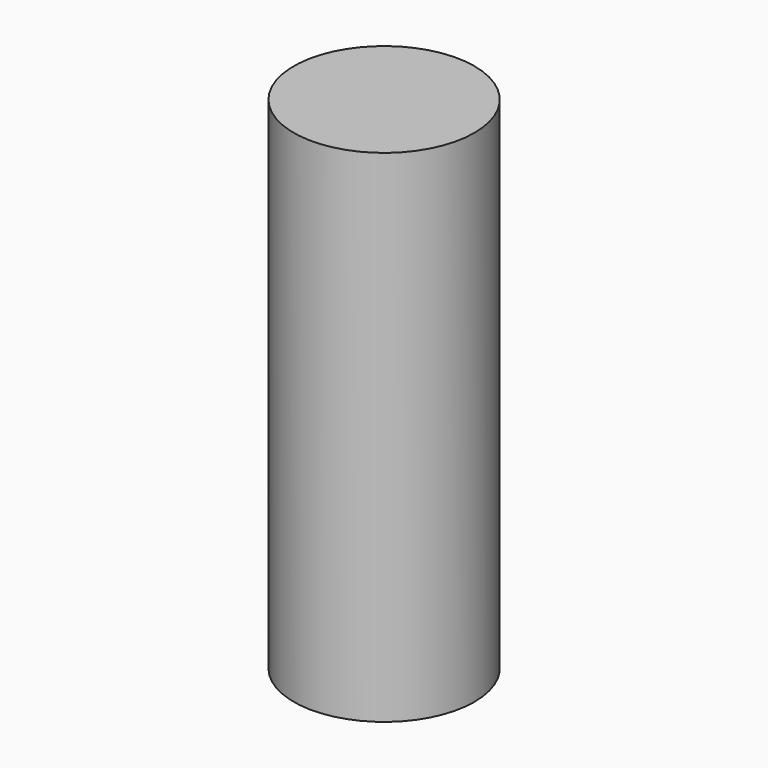
from build123d import *

# Parameters (mm, degrees)
CYLINDER_R     = 2.7051
CYLINDER_DEPTH = 15


with BuildPart() as part:
    # Cylinder → Cylinder (new body)
    with BuildSketch(Plane.XY.offset(-2.5)):
        Circle(CYLINDER_R)
    extrude(amount=CYLINDER_DEPTH)


solid = part.part
